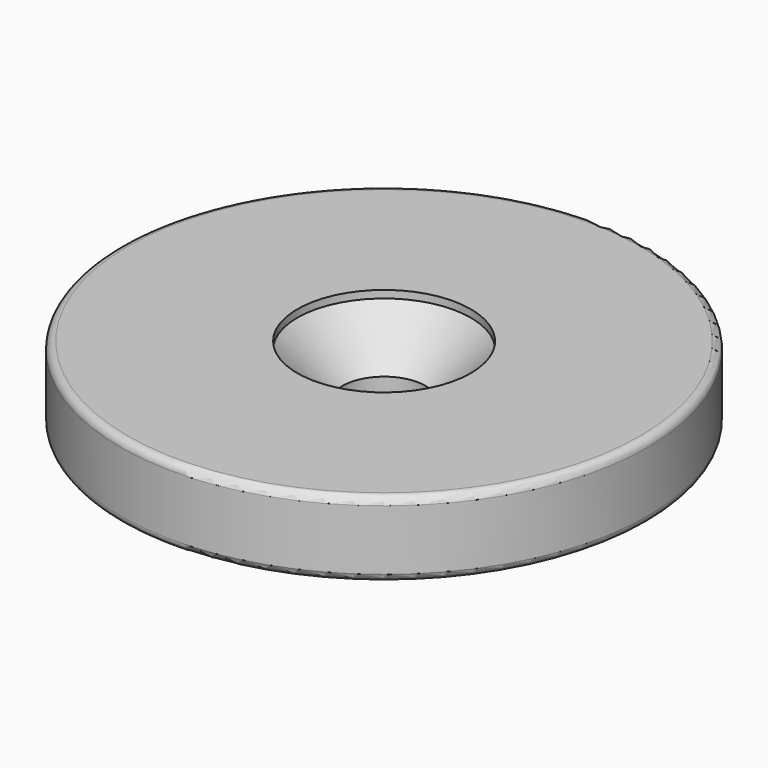
from build123d import *

# Parameters (mm, degrees)
F0_R           = 17.5
F1_DEPTH       = 5
F2_R           = 5.75
F3_DEPTH       = 0.5
F5_D           = 5.5
F5_CSINK_D     = 11.5
F5_CSINK_ANGLE = 90
F6_R           = 0.5


with BuildPart() as f1:
    # F0 (on Top) → F1 (new body)
    with BuildSketch(Plane.XY):
        Circle(F0_R)
    extrude(amount=F1_DEPTH)

    # F2 (on face) → F3 (cut)
    with BuildSketch(Plane.XY.offset(5)):
        Circle(F2_R)
    extrude(amount=-F3_DEPTH, mode=Mode.SUBTRACT)

    # F5 (through all)
    with Locations(Plane.XY.offset(4.5)):
        with Locations((0, 0)):
            CounterSinkHole(F5_D / 2, F5_CSINK_D / 2, counter_sink_angle=F5_CSINK_ANGLE)

    # F6
    f6_edges = [f1.edges().sort_by_distance(p)[0] for p in [
        (-17.5, 0, 5),
        (-17.5, 0, 0),
    ]]
    fillet(f6_edges, radius=F6_R)


solid = f1.part
